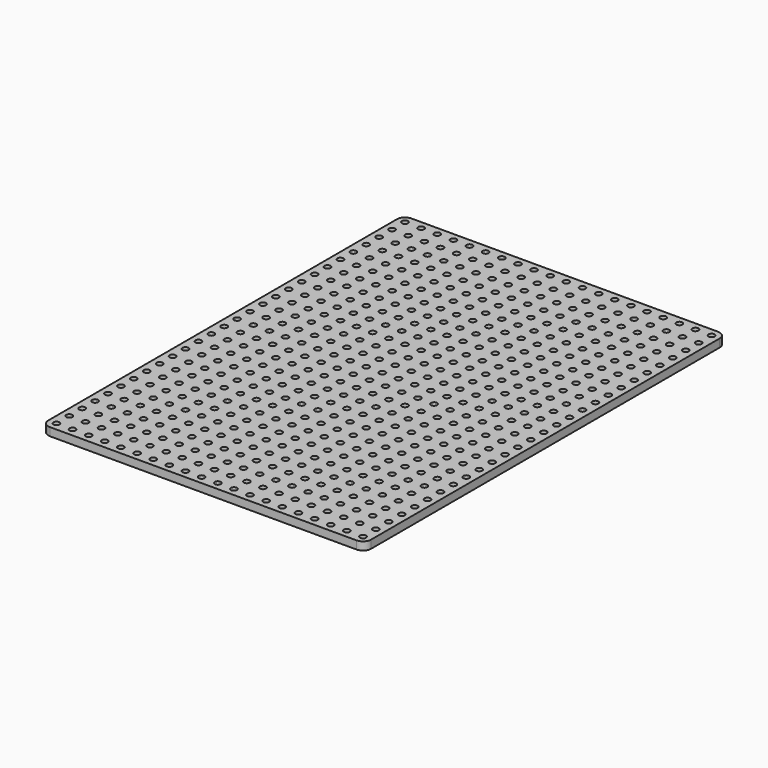
from build123d import *

# Parameters (mm, degrees)
F1_DEPTH = 3.175
F2_R     = 1.1938
F3_DEPTH = 3.176


with BuildPart() as f1:
    # F0 (on Top) → F1 (new body)
    with BuildSketch(Plane.XY):
        with BuildLine():
            ThreePointArc((-63.891217, -85.985619), (-62.961281, -88.230683), (-60.716217, -89.160619))
            Line((-60.716217, -89.160619), (59.933783, -89.160619))
            ThreePointArc((59.933783, -89.160619), (62.178847, -88.230683), (63.108783, -85.985619))
            Line((63.108783, -85.985619), (63.108783, 85.464381))
            ThreePointArc((63.108783, 85.464381), (62.178847, 87.709445), (59.933783, 88.639381))
            Line((59.933783, 88.639381), (-60.716217, 88.639381))
            ThreePointArc((-60.716217, 88.639381), (-62.961281, 87.709445), (-63.891217, 85.464381))
            Line((-63.891217, 85.464381), (-63.891217, -85.985619))
        make_face()
    extrude(amount=F1_DEPTH)

    # F2 (on face) → F3 (cut, through all)
    with BuildSketch(Plane.XY.offset(3.175)):
        with Locations((-60.716217, -85.985619)):
            Circle(F2_R)
        with Locations((-60.716217, -79.635619)):
            Circle(F2_R)
        with Locations((-60.716217, -73.285619)):
            Circle(F2_R)
        with Locations((-60.716217, -66.935619)):
            Circle(F2_R)
        with Locations((-60.716217, -60.585619)):
            Circle(F2_R)
        with Locations((-60.716217, -54.235619)):
            Circle(F2_R)
        with Locations((-60.716217, -47.885619)):
            Circle(F2_R)
        with Locations((-60.716217, -41.535619)):
            Circle(F2_R)
        with Locations((-60.716217, -35.185619)):
            Circle(F2_R)
        with Locations((-60.716217, -28.835619)):
            Circle(F2_R)
        with Locations((-60.716217, -22.485619)):
            Circle(F2_R)
        with Locations((-60.716217, -16.135619)):
            Circle(F2_R)
        with Locations((-60.716217, -9.785619)):
            Circle(F2_R)
        with Locations((-60.716217, -3.435619)):
            Circle(F2_R)
        with Locations((-60.716217, 2.914381)):
            Circle(F2_R)
        with Locations((-60.716217, 9.264381)):
            Circle(F2_R)
        with Locations((-60.716217, 15.614381)):
            Circle(F2_R)
        with Locations((-60.716217, 21.964381)):
            Circle(F2_R)
        with Locations((-60.716217, 28.314381)):
            Circle(F2_R)
        with Locations((-60.716217, 34.664381)):
            Circle(F2_R)
        with Locations((-60.716217, 41.014381)):
            Circle(F2_R)
        with Locations((-60.716217, 47.364381)):
            Circle(F2_R)
        with Locations((-60.716217, 53.714381)):
            Circle(F2_R)
        with Locations((-60.716217, 60.064381)):
            Circle(F2_R)
        with Locations((-60.716217, 66.414381)):
            Circle(F2_R)
        with Locations((-60.716217, 72.764381)):
            Circle(F2_R)
        with Locations((-60.716217, 79.114381)):
            Circle(F2_R)
        with Locations((-60.716217, 85.464381)):
            Circle(F2_R)
        with Locations((-54.366217, -85.985619)):
            Circle(F2_R)
        with Locations((-54.366217, -79.635619)):
            Circle(F2_R)
        with Locations((-54.366217, -73.285619)):
            Circle(F2_R)
        with Locations((-54.366217, -66.935619)):
            Circle(F2_R)
        with Locations((-54.366217, -60.585619)):
            Circle(F2_R)
        with Locations((-54.366217, -54.235619)):
            Circle(F2_R)
        with Locations((-54.366217, -47.885619)):
            Circle(F2_R)
        with Locations((-54.366217, -41.535619)):
            Circle(F2_R)
        with Locations((-54.366217, -35.185619)):
            Circle(F2_R)
        with Locations((-54.366217, -28.835619)):
            Circle(F2_R)
        with Locations((-54.366217, -22.485619)):
            Circle(F2_R)
        with Locations((-54.366217, -16.135619)):
            Circle(F2_R)
        with Locations((-54.366217, -9.785619)):
            Circle(F2_R)
        with Locations((-54.366217, -3.435619)):
            Circle(F2_R)
        with Locations((-54.366217, 2.914381)):
            Circle(F2_R)
        with Locations((-54.366217, 9.264381)):
            Circle(F2_R)
        with Locations((-54.366217, 15.614381)):
            Circle(F2_R)
        with Locations((-54.366217, 21.964381)):
            Circle(F2_R)
        with Locations((-54.366217, 28.314381)):
            Circle(F2_R)
        with Locations((-54.366217, 34.664381)):
            Circle(F2_R)
        with Locations((-54.366217, 41.014381)):
            Circle(F2_R)
        with Locations((-54.366217, 47.364381)):
            Circle(F2_R)
        with Locations((-54.366217, 53.714381)):
            Circle(F2_R)
        with Locations((-54.366217, 60.064381)):
            Circle(F2_R)
        with Locations((-54.366217, 66.414381)):
            Circle(F2_R)
        with Locations((-54.366217, 72.764381)):
            Circle(F2_R)
        with Locations((-54.366217, 79.114381)):
            Circle(F2_R)
        with Locations((-54.366217, 85.464381)):
            Circle(F2_R)
        with Locations((-48.016217, -85.985619)):
            Circle(F2_R)
        with Locations((-48.016217, -79.635619)):
            Circle(F2_R)
        with Locations((-48.016217, -73.285619)):
            Circle(F2_R)
        with Locations((-48.016217, -66.935619)):
            Circle(F2_R)
        with Locations((-48.016217, -60.585619)):
            Circle(F2_R)
        with Locations((-48.016217, -54.235619)):
            Circle(F2_R)
        with Locations((-48.016217, -47.885619)):
            Circle(F2_R)
        with Locations((-48.016217, -41.535619)):
            Circle(F2_R)
        with Locations((-48.016217, -35.185619)):
            Circle(F2_R)
        with Locations((-48.016217, -28.835619)):
            Circle(F2_R)
        with Locations((-48.016217, -22.485619)):
            Circle(F2_R)
        with Locations((-48.016217, -16.135619)):
            Circle(F2_R)
        with Locations((-48.016217, -9.785619)):
            Circle(F2_R)
        with Locations((-48.016217, -3.435619)):
            Circle(F2_R)
        with Locations((-48.016217, 2.914381)):
            Circle(F2_R)
        with Locations((-48.016217, 9.264381)):
            Circle(F2_R)
        with Locations((-48.016217, 15.614381)):
            Circle(F2_R)
        with Locations((-48.016217, 21.964381)):
            Circle(F2_R)
        with Locations((-48.016217, 28.314381)):
            Circle(F2_R)
        with Locations((-48.016217, 34.664381)):
            Circle(F2_R)
        with Locations((-48.016217, 41.014381)):
            Circle(F2_R)
        with Locations((-48.016217, 47.364381)):
            Circle(F2_R)
        with Locations((-48.016217, 53.714381)):
            Circle(F2_R)
        with Locations((-48.016217, 60.064381)):
            Circle(F2_R)
        with Locations((-48.016217, 66.414381)):
            Circle(F2_R)
        with Locations((-48.016217, 72.764381)):
            Circle(F2_R)
        with Locations((-48.016217, 79.114381)):
            Circle(F2_R)
        with Locations((-48.016217, 85.464381)):
            Circle(F2_R)
        with Locations((-41.666217, -85.985619)):
            Circle(F2_R)
        with Locations((-41.666217, -79.635619)):
            Circle(F2_R)
        with Locations((-41.666217, -73.285619)):
            Circle(F2_R)
        with Locations((-41.666217, -66.935619)):
            Circle(F2_R)
        with Locations((-41.666217, -60.585619)):
            Circle(F2_R)
        with Locations((-41.666217, -54.235619)):
            Circle(F2_R)
        with Locations((-41.666217, -47.885619)):
            Circle(F2_R)
        with Locations((-41.666217, -41.535619)):
            Circle(F2_R)
        with Locations((-41.666217, -35.185619)):
            Circle(F2_R)
        with Locations((-41.666217, -28.835619)):
            Circle(F2_R)
        with Locations((-41.666217, -22.485619)):
            Circle(F2_R)
        with Locations((-41.666217, -16.135619)):
            Circle(F2_R)
        with Locations((-41.666217, -9.785619)):
            Circle(F2_R)
        with Locations((-41.666217, -3.435619)):
            Circle(F2_R)
        with Locations((-41.666217, 2.914381)):
            Circle(F2_R)
        with Locations((-41.666217, 9.264381)):
            Circle(F2_R)
        with Locations((-41.666217, 15.614381)):
            Circle(F2_R)
        with Locations((-41.666217, 21.964381)):
            Circle(F2_R)
        with Locations((-41.666217, 28.314381)):
            Circle(F2_R)
        with Locations((-41.666217, 34.664381)):
            Circle(F2_R)
        with Locations((-41.666217, 41.014381)):
            Circle(F2_R)
        with Locations((-41.666217, 47.364381)):
            Circle(F2_R)
        with Locations((-41.666217, 53.714381)):
            Circle(F2_R)
        with Locations((-41.666217, 60.064381)):
            Circle(F2_R)
        with Locations((-41.666217, 66.414381)):
            Circle(F2_R)
        with Locations((-41.666217, 72.764381)):
            Circle(F2_R)
        with Locations((-41.666217, 79.114381)):
            Circle(F2_R)
        with Locations((-41.666217, 85.464381)):
            Circle(F2_R)
        with Locations((-35.316217, -85.985619)):
            Circle(F2_R)
        with Locations((-35.316217, -79.635619)):
            Circle(F2_R)
        with Locations((-35.316217, -73.285619)):
            Circle(F2_R)
        with Locations((-35.316217, -66.935619)):
            Circle(F2_R)
        with Locations((-35.316217, -60.585619)):
            Circle(F2_R)
        with Locations((-35.316217, -54.235619)):
            Circle(F2_R)
        with Locations((-35.316217, -47.885619)):
            Circle(F2_R)
        with Locations((-35.316217, -41.535619)):
            Circle(F2_R)
        with Locations((-35.316217, -35.185619)):
            Circle(F2_R)
        with Locations((-35.316217, -28.835619)):
            Circle(F2_R)
        with Locations((-35.316217, -22.485619)):
            Circle(F2_R)
        with Locations((-35.316217, -16.135619)):
            Circle(F2_R)
        with Locations((-35.316217, -9.785619)):
            Circle(F2_R)
        with Locations((-35.316217, -3.435619)):
            Circle(F2_R)
        with Locations((-35.316217, 2.914381)):
            Circle(F2_R)
        with Locations((-35.316217, 9.264381)):
            Circle(F2_R)
        with Locations((-35.316217, 15.614381)):
            Circle(F2_R)
        with Locations((-35.316217, 21.964381)):
            Circle(F2_R)
        with Locations((-35.316217, 28.314381)):
            Circle(F2_R)
        with Locations((-35.316217, 34.664381)):
            Circle(F2_R)
        with Locations((-35.316217, 41.014381)):
            Circle(F2_R)
        with Locations((-35.316217, 47.364381)):
            Circle(F2_R)
        with Locations((-35.316217, 53.714381)):
            Circle(F2_R)
        with Locations((-35.316217, 60.064381)):
            Circle(F2_R)
        with Locations((-35.316217, 66.414381)):
            Circle(F2_R)
        with Locations((-35.316217, 72.764381)):
            Circle(F2_R)
        with Locations((-35.316217, 79.114381)):
            Circle(F2_R)
        with Locations((-35.316217, 85.464381)):
            Circle(F2_R)
        with Locations((-28.966217, -85.985619)):
            Circle(F2_R)
        with Locations((-28.966217, -79.635619)):
            Circle(F2_R)
        with Locations((-28.966217, -73.285619)):
            Circle(F2_R)
        with Locations((-28.966217, -66.935619)):
            Circle(F2_R)
        with Locations((-28.966217, -60.585619)):
            Circle(F2_R)
        with Locations((-28.966217, -54.235619)):
            Circle(F2_R)
        with Locations((-28.966217, -47.885619)):
            Circle(F2_R)
        with Locations((-28.966217, -41.535619)):
            Circle(F2_R)
        with Locations((-28.966217, -35.185619)):
            Circle(F2_R)
        with Locations((-28.966217, -28.835619)):
            Circle(F2_R)
        with Locations((-28.966217, -22.485619)):
            Circle(F2_R)
        with Locations((-28.966217, -16.135619)):
            Circle(F2_R)
        with Locations((-28.966217, -9.785619)):
            Circle(F2_R)
        with Locations((-28.966217, -3.435619)):
            Circle(F2_R)
        with Locations((-28.966217, 2.914381)):
            Circle(F2_R)
        with Locations((-28.966217, 9.264381)):
            Circle(F2_R)
        with Locations((-28.966217, 15.614381)):
            Circle(F2_R)
        with Locations((-28.966217, 21.964381)):
            Circle(F2_R)
        with Locations((-28.966217, 28.314381)):
            Circle(F2_R)
        with Locations((-28.966217, 34.664381)):
            Circle(F2_R)
        with Locations((-28.966217, 41.014381)):
            Circle(F2_R)
        with Locations((-28.966217, 47.364381)):
            Circle(F2_R)
        with Locations((-28.966217, 53.714381)):
            Circle(F2_R)
        with Locations((-28.966217, 60.064381)):
            Circle(F2_R)
        with Locations((-28.966217, 66.414381)):
            Circle(F2_R)
        with Locations((-28.966217, 72.764381)):
            Circle(F2_R)
        with Locations((-28.966217, 79.114381)):
            Circle(F2_R)
        with Locations((-28.966217, 85.464381)):
            Circle(F2_R)
        with Locations((-22.616217, -85.985619)):
            Circle(F2_R)
        with Locations((-22.616217, -79.635619)):
            Circle(F2_R)
        with Locations((-22.616217, -73.285619)):
            Circle(F2_R)
        with Locations((-22.616217, -66.935619)):
            Circle(F2_R)
        with Locations((-22.616217, -60.585619)):
            Circle(F2_R)
        with Locations((-22.616217, -54.235619)):
            Circle(F2_R)
        with Locations((-22.616217, -47.885619)):
            Circle(F2_R)
        with Locations((-22.616217, -41.535619)):
            Circle(F2_R)
        with Locations((-22.616217, -35.185619)):
            Circle(F2_R)
        with Locations((-22.616217, -28.835619)):
            Circle(F2_R)
        with Locations((-22.616217, -22.485619)):
            Circle(F2_R)
        with Locations((-22.616217, -16.135619)):
            Circle(F2_R)
        with Locations((-22.616217, -9.785619)):
            Circle(F2_R)
        with Locations((-22.616217, -3.435619)):
            Circle(F2_R)
        with Locations((-22.616217, 2.914381)):
            Circle(F2_R)
        with Locations((-22.616217, 9.264381)):
            Circle(F2_R)
        with Locations((-22.616217, 15.614381)):
            Circle(F2_R)
        with Locations((-22.616217, 21.964381)):
            Circle(F2_R)
        with Locations((-22.616217, 28.314381)):
            Circle(F2_R)
        with Locations((-22.616217, 34.664381)):
            Circle(F2_R)
        with Locations((-22.616217, 41.014381)):
            Circle(F2_R)
        with Locations((-22.616217, 47.364381)):
            Circle(F2_R)
        with Locations((-22.616217, 53.714381)):
            Circle(F2_R)
        with Locations((-22.616217, 60.064381)):
            Circle(F2_R)
        with Locations((-22.616217, 66.414381)):
            Circle(F2_R)
        with Locations((-22.616217, 72.764381)):
            Circle(F2_R)
        with Locations((-22.616217, 79.114381)):
            Circle(F2_R)
        with Locations((-22.616217, 85.464381)):
            Circle(F2_R)
        with Locations((-16.266217, -85.985619)):
            Circle(F2_R)
        with Locations((-16.266217, -79.635619)):
            Circle(F2_R)
        with Locations((-16.266217, -73.285619)):
            Circle(F2_R)
        with Locations((-16.266217, -66.935619)):
            Circle(F2_R)
        with Locations((-16.266217, -60.585619)):
            Circle(F2_R)
        with Locations((-16.266217, -54.235619)):
            Circle(F2_R)
        with Locations((-16.266217, -47.885619)):
            Circle(F2_R)
        with Locations((-16.266217, -41.535619)):
            Circle(F2_R)
        with Locations((-16.266217, -35.185619)):
            Circle(F2_R)
        with Locations((-16.266217, -28.835619)):
            Circle(F2_R)
        with Locations((-16.266217, -22.485619)):
            Circle(F2_R)
        with Locations((-16.266217, -16.135619)):
            Circle(F2_R)
        with Locations((-16.266217, -9.785619)):
            Circle(F2_R)
        with Locations((-16.266217, -3.435619)):
            Circle(F2_R)
        with Locations((-16.266217, 2.914381)):
            Circle(F2_R)
        with Locations((-16.266217, 9.264381)):
            Circle(F2_R)
        with Locations((-16.266217, 15.614381)):
            Circle(F2_R)
        with Locations((-16.266217, 21.964381)):
            Circle(F2_R)
        with Locations((-16.266217, 28.314381)):
            Circle(F2_R)
        with Locations((-16.266217, 34.664381)):
            Circle(F2_R)
        with Locations((-16.266217, 41.014381)):
            Circle(F2_R)
        with Locations((-16.266217, 47.364381)):
            Circle(F2_R)
        with Locations((-16.266217, 53.714381)):
            Circle(F2_R)
        with Locations((-16.266217, 60.064381)):
            Circle(F2_R)
        with Locations((-16.266217, 66.414381)):
            Circle(F2_R)
        with Locations((-16.266217, 72.764381)):
            Circle(F2_R)
        with Locations((-16.266217, 79.114381)):
            Circle(F2_R)
        with Locations((-16.266217, 85.464381)):
            Circle(F2_R)
        with Locations((-9.916217, -85.985619)):
            Circle(F2_R)
        with Locations((-9.916217, -79.635619)):
            Circle(F2_R)
        with Locations((-9.916217, -73.285619)):
            Circle(F2_R)
        with Locations((-9.916217, -66.935619)):
            Circle(F2_R)
        with Locations((-9.916217, -60.585619)):
            Circle(F2_R)
        with Locations((-9.916217, -54.235619)):
            Circle(F2_R)
        with Locations((-9.916217, -47.885619)):
            Circle(F2_R)
        with Locations((-9.916217, -41.535619)):
            Circle(F2_R)
        with Locations((-9.916217, -35.185619)):
            Circle(F2_R)
        with Locations((-9.916217, -28.835619)):
            Circle(F2_R)
        with Locations((-9.916217, -22.485619)):
            Circle(F2_R)
        with Locations((-9.916217, -16.135619)):
            Circle(F2_R)
        with Locations((-9.916217, -9.785619)):
            Circle(F2_R)
        with Locations((-9.916217, -3.435619)):
            Circle(F2_R)
        with Locations((-9.916217, 2.914381)):
            Circle(F2_R)
        with Locations((-9.916217, 9.264381)):
            Circle(F2_R)
        with Locations((-9.916217, 15.614381)):
            Circle(F2_R)
        with Locations((-9.916217, 21.964381)):
            Circle(F2_R)
        with Locations((-9.916217, 28.314381)):
            Circle(F2_R)
        with Locations((-9.916217, 34.664381)):
            Circle(F2_R)
        with Locations((-9.916217, 41.014381)):
            Circle(F2_R)
        with Locations((-9.916217, 47.364381)):
            Circle(F2_R)
        with Locations((-9.916217, 53.714381)):
            Circle(F2_R)
        with Locations((-9.916217, 60.064381)):
            Circle(F2_R)
        with Locations((-9.916217, 66.414381)):
            Circle(F2_R)
        with Locations((-9.916217, 72.764381)):
            Circle(F2_R)
        with Locations((-9.916217, 79.114381)):
            Circle(F2_R)
        with Locations((-9.916217, 85.464381)):
            Circle(F2_R)
        with Locations((-3.566217, -85.985619)):
            Circle(F2_R)
        with Locations((-3.566217, -79.635619)):
            Circle(F2_R)
        with Locations((-3.566217, -73.285619)):
            Circle(F2_R)
        with Locations((-3.566217, -66.935619)):
            Circle(F2_R)
        with Locations((-3.566217, -60.585619)):
            Circle(F2_R)
        with Locations((-3.566217, -54.235619)):
            Circle(F2_R)
        with Locations((-3.566217, -47.885619)):
            Circle(F2_R)
        with Locations((-3.566217, -41.535619)):
            Circle(F2_R)
        with Locations((-3.566217, -35.185619)):
            Circle(F2_R)
        with Locations((-3.566217, -28.835619)):
            Circle(F2_R)
        with Locations((-3.566217, -22.485619)):
            Circle(F2_R)
        with Locations((-3.566217, -16.135619)):
            Circle(F2_R)
        with Locations((-3.566217, -9.785619)):
            Circle(F2_R)
        with Locations((-3.566217, -3.435619)):
            Circle(F2_R)
        with Locations((-3.566217, 2.914381)):
            Circle(F2_R)
        with Locations((-3.566217, 9.264381)):
            Circle(F2_R)
        with Locations((-3.566217, 15.614381)):
            Circle(F2_R)
        with Locations((-3.566217, 21.964381)):
            Circle(F2_R)
        with Locations((-3.566217, 28.314381)):
            Circle(F2_R)
        with Locations((-3.566217, 34.664381)):
            Circle(F2_R)
        with Locations((-3.566217, 41.014381)):
            Circle(F2_R)
        with Locations((-3.566217, 47.364381)):
            Circle(F2_R)
        with Locations((-3.566217, 53.714381)):
            Circle(F2_R)
        with Locations((-3.566217, 60.064381)):
            Circle(F2_R)
        with Locations((-3.566217, 66.414381)):
            Circle(F2_R)
        with Locations((-3.566217, 72.764381)):
            Circle(F2_R)
        with Locations((-3.566217, 79.114381)):
            Circle(F2_R)
        with Locations((-3.566217, 85.464381)):
            Circle(F2_R)
        with Locations((2.783783, -85.985619)):
            Circle(F2_R)
        with Locations((2.783783, -79.635619)):
            Circle(F2_R)
        with Locations((2.783783, -73.285619)):
            Circle(F2_R)
        with Locations((2.783783, -66.935619)):
            Circle(F2_R)
        with Locations((2.783783, -60.585619)):
            Circle(F2_R)
        with Locations((2.783783, -54.235619)):
            Circle(F2_R)
        with Locations((2.783783, -47.885619)):
            Circle(F2_R)
        with Locations((2.783783, -41.535619)):
            Circle(F2_R)
        with Locations((2.783783, -35.185619)):
            Circle(F2_R)
        with Locations((2.783783, -28.835619)):
            Circle(F2_R)
        with Locations((2.783783, -22.485619)):
            Circle(F2_R)
        with Locations((2.783783, -16.135619)):
            Circle(F2_R)
        with Locations((2.783783, -9.785619)):
            Circle(F2_R)
        with Locations((2.783783, -3.435619)):
            Circle(F2_R)
        with Locations((2.783783, 2.914381)):
            Circle(F2_R)
        with Locations((2.783783, 9.264381)):
            Circle(F2_R)
        with Locations((2.783783, 15.614381)):
            Circle(F2_R)
        with Locations((2.783783, 21.964381)):
            Circle(F2_R)
        with Locations((2.783783, 28.314381)):
            Circle(F2_R)
        with Locations((2.783783, 34.664381)):
            Circle(F2_R)
        with Locations((2.783783, 41.014381)):
            Circle(F2_R)
        with Locations((2.783783, 47.364381)):
            Circle(F2_R)
        with Locations((2.783783, 53.714381)):
            Circle(F2_R)
        with Locations((2.783783, 60.064381)):
            Circle(F2_R)
        with Locations((2.783783, 66.414381)):
            Circle(F2_R)
        with Locations((2.783783, 72.764381)):
            Circle(F2_R)
        with Locations((2.783783, 79.114381)):
            Circle(F2_R)
        with Locations((2.783783, 85.464381)):
            Circle(F2_R)
        with Locations((9.133783, -85.985619)):
            Circle(F2_R)
        with Locations((9.133783, -79.635619)):
            Circle(F2_R)
        with Locations((9.133783, -73.285619)):
            Circle(F2_R)
        with Locations((9.133783, -66.935619)):
            Circle(F2_R)
        with Locations((9.133783, -60.585619)):
            Circle(F2_R)
        with Locations((9.133783, -54.235619)):
            Circle(F2_R)
        with Locations((9.133783, -47.885619)):
            Circle(F2_R)
        with Locations((9.133783, -41.535619)):
            Circle(F2_R)
        with Locations((9.133783, -35.185619)):
            Circle(F2_R)
        with Locations((9.133783, -28.835619)):
            Circle(F2_R)
        with Locations((9.133783, -22.485619)):
            Circle(F2_R)
        with Locations((9.133783, -16.135619)):
            Circle(F2_R)
        with Locations((9.133783, -9.785619)):
            Circle(F2_R)
        with Locations((9.133783, -3.435619)):
            Circle(F2_R)
        with Locations((9.133783, 2.914381)):
            Circle(F2_R)
        with Locations((9.133783, 9.264381)):
            Circle(F2_R)
        with Locations((9.133783, 15.614381)):
            Circle(F2_R)
        with Locations((9.133783, 21.964381)):
            Circle(F2_R)
        with Locations((9.133783, 28.314381)):
            Circle(F2_R)
        with Locations((9.133783, 34.664381)):
            Circle(F2_R)
        with Locations((9.133783, 41.014381)):
            Circle(F2_R)
        with Locations((9.133783, 47.364381)):
            Circle(F2_R)
        with Locations((9.133783, 53.714381)):
            Circle(F2_R)
        with Locations((9.133783, 60.064381)):
            Circle(F2_R)
        with Locations((9.133783, 66.414381)):
            Circle(F2_R)
        with Locations((9.133783, 72.764381)):
            Circle(F2_R)
        with Locations((9.133783, 79.114381)):
            Circle(F2_R)
        with Locations((9.133783, 85.464381)):
            Circle(F2_R)
        with Locations((15.483783, -85.985619)):
            Circle(F2_R)
        with Locations((15.483783, -79.635619)):
            Circle(F2_R)
        with Locations((15.483783, -73.285619)):
            Circle(F2_R)
        with Locations((15.483783, -66.935619)):
            Circle(F2_R)
        with Locations((15.483783, -60.585619)):
            Circle(F2_R)
        with Locations((15.483783, -54.235619)):
            Circle(F2_R)
        with Locations((15.483783, -47.885619)):
            Circle(F2_R)
        with Locations((15.483783, -41.535619)):
            Circle(F2_R)
        with Locations((15.483783, -35.185619)):
            Circle(F2_R)
        with Locations((15.483783, -28.835619)):
            Circle(F2_R)
        with Locations((15.483783, -22.485619)):
            Circle(F2_R)
        with Locations((15.483783, -16.135619)):
            Circle(F2_R)
        with Locations((15.483783, -9.785619)):
            Circle(F2_R)
        with Locations((15.483783, -3.435619)):
            Circle(F2_R)
        with Locations((15.483783, 2.914381)):
            Circle(F2_R)
        with Locations((15.483783, 9.264381)):
            Circle(F2_R)
        with Locations((15.483783, 15.614381)):
            Circle(F2_R)
        with Locations((15.483783, 21.964381)):
            Circle(F2_R)
        with Locations((15.483783, 28.314381)):
            Circle(F2_R)
        with Locations((15.483783, 34.664381)):
            Circle(F2_R)
        with Locations((15.483783, 41.014381)):
            Circle(F2_R)
        with Locations((15.483783, 47.364381)):
            Circle(F2_R)
        with Locations((15.483783, 53.714381)):
            Circle(F2_R)
        with Locations((15.483783, 60.064381)):
            Circle(F2_R)
        with Locations((15.483783, 66.414381)):
            Circle(F2_R)
        with Locations((15.483783, 72.764381)):
            Circle(F2_R)
        with Locations((15.483783, 79.114381)):
            Circle(F2_R)
        with Locations((15.483783, 85.464381)):
            Circle(F2_R)
        with Locations((21.833783, -85.985619)):
            Circle(F2_R)
        with Locations((21.833783, -79.635619)):
            Circle(F2_R)
        with Locations((21.833783, -73.285619)):
            Circle(F2_R)
        with Locations((21.833783, -66.935619)):
            Circle(F2_R)
        with Locations((21.833783, -60.585619)):
            Circle(F2_R)
        with Locations((21.833783, -54.235619)):
            Circle(F2_R)
        with Locations((21.833783, -47.885619)):
            Circle(F2_R)
        with Locations((21.833783, -41.535619)):
            Circle(F2_R)
        with Locations((21.833783, -35.185619)):
            Circle(F2_R)
        with Locations((21.833783, -28.835619)):
            Circle(F2_R)
        with Locations((21.833783, -22.485619)):
            Circle(F2_R)
        with Locations((21.833783, -16.135619)):
            Circle(F2_R)
        with Locations((21.833783, -9.785619)):
            Circle(F2_R)
        with Locations((21.833783, -3.435619)):
            Circle(F2_R)
        with Locations((21.833783, 2.914381)):
            Circle(F2_R)
        with Locations((21.833783, 9.264381)):
            Circle(F2_R)
        with Locations((21.833783, 15.614381)):
            Circle(F2_R)
        with Locations((21.833783, 21.964381)):
            Circle(F2_R)
        with Locations((21.833783, 28.314381)):
            Circle(F2_R)
        with Locations((21.833783, 34.664381)):
            Circle(F2_R)
        with Locations((21.833783, 41.014381)):
            Circle(F2_R)
        with Locations((21.833783, 47.364381)):
            Circle(F2_R)
        with Locations((21.833783, 53.714381)):
            Circle(F2_R)
        with Locations((21.833783, 60.064381)):
            Circle(F2_R)
        with Locations((21.833783, 66.414381)):
            Circle(F2_R)
        with Locations((21.833783, 72.764381)):
            Circle(F2_R)
        with Locations((21.833783, 79.114381)):
            Circle(F2_R)
        with Locations((21.833783, 85.464381)):
            Circle(F2_R)
        with Locations((28.183783, -85.985619)):
            Circle(F2_R)
        with Locations((28.183783, -79.635619)):
            Circle(F2_R)
        with Locations((28.183783, -73.285619)):
            Circle(F2_R)
        with Locations((28.183783, -66.935619)):
            Circle(F2_R)
        with Locations((28.183783, -60.585619)):
            Circle(F2_R)
        with Locations((28.183783, -54.235619)):
            Circle(F2_R)
        with Locations((28.183783, -47.885619)):
            Circle(F2_R)
        with Locations((28.183783, -41.535619)):
            Circle(F2_R)
        with Locations((28.183783, -35.185619)):
            Circle(F2_R)
        with Locations((28.183783, -28.835619)):
            Circle(F2_R)
        with Locations((28.183783, -22.485619)):
            Circle(F2_R)
        with Locations((28.183783, -16.135619)):
            Circle(F2_R)
        with Locations((28.183783, -9.785619)):
            Circle(F2_R)
        with Locations((28.183783, -3.435619)):
            Circle(F2_R)
        with Locations((28.183783, 2.914381)):
            Circle(F2_R)
        with Locations((28.183783, 9.264381)):
            Circle(F2_R)
        with Locations((28.183783, 15.614381)):
            Circle(F2_R)
        with Locations((28.183783, 21.964381)):
            Circle(F2_R)
        with Locations((28.183783, 28.314381)):
            Circle(F2_R)
        with Locations((28.183783, 34.664381)):
            Circle(F2_R)
        with Locations((28.183783, 41.014381)):
            Circle(F2_R)
        with Locations((28.183783, 47.364381)):
            Circle(F2_R)
        with Locations((28.183783, 53.714381)):
            Circle(F2_R)
        with Locations((28.183783, 60.064381)):
            Circle(F2_R)
        with Locations((28.183783, 66.414381)):
            Circle(F2_R)
        with Locations((28.183783, 72.764381)):
            Circle(F2_R)
        with Locations((28.183783, 79.114381)):
            Circle(F2_R)
        with Locations((28.183783, 85.464381)):
            Circle(F2_R)
        with Locations((34.533783, -85.985619)):
            Circle(F2_R)
        with Locations((34.533783, -79.635619)):
            Circle(F2_R)
        with Locations((34.533783, -73.285619)):
            Circle(F2_R)
        with Locations((34.533783, -66.935619)):
            Circle(F2_R)
        with Locations((34.533783, -60.585619)):
            Circle(F2_R)
        with Locations((34.533783, -54.235619)):
            Circle(F2_R)
        with Locations((34.533783, -47.885619)):
            Circle(F2_R)
        with Locations((34.533783, -41.535619)):
            Circle(F2_R)
        with Locations((34.533783, -35.185619)):
            Circle(F2_R)
        with Locations((34.533783, -28.835619)):
            Circle(F2_R)
        with Locations((34.533783, -22.485619)):
            Circle(F2_R)
        with Locations((34.533783, -16.135619)):
            Circle(F2_R)
        with Locations((34.533783, -9.785619)):
            Circle(F2_R)
        with Locations((34.533783, -3.435619)):
            Circle(F2_R)
        with Locations((34.533783, 2.914381)):
            Circle(F2_R)
        with Locations((34.533783, 9.264381)):
            Circle(F2_R)
        with Locations((34.533783, 15.614381)):
            Circle(F2_R)
        with Locations((34.533783, 21.964381)):
            Circle(F2_R)
        with Locations((34.533783, 28.314381)):
            Circle(F2_R)
        with Locations((34.533783, 34.664381)):
            Circle(F2_R)
        with Locations((34.533783, 41.014381)):
            Circle(F2_R)
        with Locations((34.533783, 47.364381)):
            Circle(F2_R)
        with Locations((34.533783, 53.714381)):
            Circle(F2_R)
        with Locations((34.533783, 60.064381)):
            Circle(F2_R)
        with Locations((34.533783, 66.414381)):
            Circle(F2_R)
        with Locations((34.533783, 72.764381)):
            Circle(F2_R)
        with Locations((34.533783, 79.114381)):
            Circle(F2_R)
        with Locations((34.533783, 85.464381)):
            Circle(F2_R)
        with Locations((40.883783, -85.985619)):
            Circle(F2_R)
        with Locations((40.883783, -79.635619)):
            Circle(F2_R)
        with Locations((40.883783, -73.285619)):
            Circle(F2_R)
        with Locations((40.883783, -66.935619)):
            Circle(F2_R)
        with Locations((40.883783, -60.585619)):
            Circle(F2_R)
        with Locations((40.883783, -54.235619)):
            Circle(F2_R)
        with Locations((40.883783, -47.885619)):
            Circle(F2_R)
        with Locations((40.883783, -41.535619)):
            Circle(F2_R)
        with Locations((40.883783, -35.185619)):
            Circle(F2_R)
        with Locations((40.883783, -28.835619)):
            Circle(F2_R)
        with Locations((40.883783, -22.485619)):
            Circle(F2_R)
        with Locations((40.883783, -16.135619)):
            Circle(F2_R)
        with Locations((40.883783, -9.785619)):
            Circle(F2_R)
        with Locations((40.883783, -3.435619)):
            Circle(F2_R)
        with Locations((40.883783, 2.914381)):
            Circle(F2_R)
        with Locations((40.883783, 9.264381)):
            Circle(F2_R)
        with Locations((40.883783, 15.614381)):
            Circle(F2_R)
        with Locations((40.883783, 21.964381)):
            Circle(F2_R)
        with Locations((40.883783, 28.314381)):
            Circle(F2_R)
        with Locations((40.883783, 34.664381)):
            Circle(F2_R)
        with Locations((40.883783, 41.014381)):
            Circle(F2_R)
        with Locations((40.883783, 47.364381)):
            Circle(F2_R)
        with Locations((40.883783, 53.714381)):
            Circle(F2_R)
        with Locations((40.883783, 60.064381)):
            Circle(F2_R)
        with Locations((40.883783, 66.414381)):
            Circle(F2_R)
        with Locations((40.883783, 72.764381)):
            Circle(F2_R)
        with Locations((40.883783, 79.114381)):
            Circle(F2_R)
        with Locations((40.883783, 85.464381)):
            Circle(F2_R)
        with Locations((47.233783, -85.985619)):
            Circle(F2_R)
        with Locations((47.233783, -79.635619)):
            Circle(F2_R)
        with Locations((47.233783, -73.285619)):
            Circle(F2_R)
        with Locations((47.233783, -66.935619)):
            Circle(F2_R)
        with Locations((47.233783, -60.585619)):
            Circle(F2_R)
        with Locations((47.233783, -54.235619)):
            Circle(F2_R)
        with Locations((47.233783, -47.885619)):
            Circle(F2_R)
        with Locations((47.233783, -41.535619)):
            Circle(F2_R)
        with Locations((47.233783, -35.185619)):
            Circle(F2_R)
        with Locations((47.233783, -28.835619)):
            Circle(F2_R)
        with Locations((47.233783, -22.485619)):
            Circle(F2_R)
        with Locations((47.233783, -16.135619)):
            Circle(F2_R)
        with Locations((47.233783, -9.785619)):
            Circle(F2_R)
        with Locations((47.233783, -3.435619)):
            Circle(F2_R)
        with Locations((47.233783, 2.914381)):
            Circle(F2_R)
        with Locations((47.233783, 9.264381)):
            Circle(F2_R)
        with Locations((47.233783, 15.614381)):
            Circle(F2_R)
        with Locations((47.233783, 21.964381)):
            Circle(F2_R)
        with Locations((47.233783, 28.314381)):
            Circle(F2_R)
        with Locations((47.233783, 34.664381)):
            Circle(F2_R)
        with Locations((47.233783, 41.014381)):
            Circle(F2_R)
        with Locations((47.233783, 47.364381)):
            Circle(F2_R)
        with Locations((47.233783, 53.714381)):
            Circle(F2_R)
        with Locations((47.233783, 60.064381)):
            Circle(F2_R)
        with Locations((47.233783, 66.414381)):
            Circle(F2_R)
        with Locations((47.233783, 72.764381)):
            Circle(F2_R)
        with Locations((47.233783, 79.114381)):
            Circle(F2_R)
        with Locations((47.233783, 85.464381)):
            Circle(F2_R)
        with Locations((53.583783, -85.985619)):
            Circle(F2_R)
        with Locations((53.583783, -79.635619)):
            Circle(F2_R)
        with Locations((53.583783, -73.285619)):
            Circle(F2_R)
        with Locations((53.583783, -66.935619)):
            Circle(F2_R)
        with Locations((53.583783, -60.585619)):
            Circle(F2_R)
        with Locations((53.583783, -54.235619)):
            Circle(F2_R)
        with Locations((53.583783, -47.885619)):
            Circle(F2_R)
        with Locations((53.583783, -41.535619)):
            Circle(F2_R)
        with Locations((53.583783, -35.185619)):
            Circle(F2_R)
        with Locations((53.583783, -28.835619)):
            Circle(F2_R)
        with Locations((53.583783, -22.485619)):
            Circle(F2_R)
        with Locations((53.583783, -16.135619)):
            Circle(F2_R)
        with Locations((53.583783, -9.785619)):
            Circle(F2_R)
        with Locations((53.583783, -3.435619)):
            Circle(F2_R)
        with Locations((53.583783, 2.914381)):
            Circle(F2_R)
        with Locations((53.583783, 9.264381)):
            Circle(F2_R)
        with Locations((53.583783, 15.614381)):
            Circle(F2_R)
        with Locations((53.583783, 21.964381)):
            Circle(F2_R)
        with Locations((53.583783, 28.314381)):
            Circle(F2_R)
        with Locations((53.583783, 34.664381)):
            Circle(F2_R)
        with Locations((53.583783, 41.014381)):
            Circle(F2_R)
        with Locations((53.583783, 47.364381)):
            Circle(F2_R)
        with Locations((53.583783, 53.714381)):
            Circle(F2_R)
        with Locations((53.583783, 60.064381)):
            Circle(F2_R)
        with Locations((53.583783, 66.414381)):
            Circle(F2_R)
        with Locations((53.583783, 72.764381)):
            Circle(F2_R)
        with Locations((53.583783, 79.114381)):
            Circle(F2_R)
        with Locations((53.583783, 85.464381)):
            Circle(F2_R)
        with Locations((59.933783, -85.985619)):
            Circle(F2_R)
        with Locations((59.933783, -79.635619)):
            Circle(F2_R)
        with Locations((59.933783, -73.285619)):
            Circle(F2_R)
        with Locations((59.933783, -66.935619)):
            Circle(F2_R)
        with Locations((59.933783, -60.585619)):
            Circle(F2_R)
        with Locations((59.933783, -54.235619)):
            Circle(F2_R)
        with Locations((59.933783, -47.885619)):
            Circle(F2_R)
        with Locations((59.933783, -41.535619)):
            Circle(F2_R)
        with Locations((59.933783, -35.185619)):
            Circle(F2_R)
        with Locations((59.933783, -28.835619)):
            Circle(F2_R)
        with Locations((59.933783, -22.485619)):
            Circle(F2_R)
        with Locations((59.933783, -16.135619)):
            Circle(F2_R)
        with Locations((59.933783, -9.785619)):
            Circle(F2_R)
        with Locations((59.933783, -3.435619)):
            Circle(F2_R)
        with Locations((59.933783, 2.914381)):
            Circle(F2_R)
        with Locations((59.933783, 9.264381)):
            Circle(F2_R)
        with Locations((59.933783, 15.614381)):
            Circle(F2_R)
        with Locations((59.933783, 21.964381)):
            Circle(F2_R)
        with Locations((59.933783, 28.314381)):
            Circle(F2_R)
        with Locations((59.933783, 34.664381)):
            Circle(F2_R)
        with Locations((59.933783, 41.014381)):
            Circle(F2_R)
        with Locations((59.933783, 47.364381)):
            Circle(F2_R)
        with Locations((59.933783, 53.714381)):
            Circle(F2_R)
        with Locations((59.933783, 60.064381)):
            Circle(F2_R)
        with Locations((59.933783, 66.414381)):
            Circle(F2_R)
        with Locations((59.933783, 72.764381)):
            Circle(F2_R)
        with Locations((59.933783, 79.114381)):
            Circle(F2_R)
        with Locations((59.933783, 85.464381)):
            Circle(F2_R)
    extrude(amount=-F3_DEPTH, mode=Mode.SUBTRACT)


solid = f1.part
